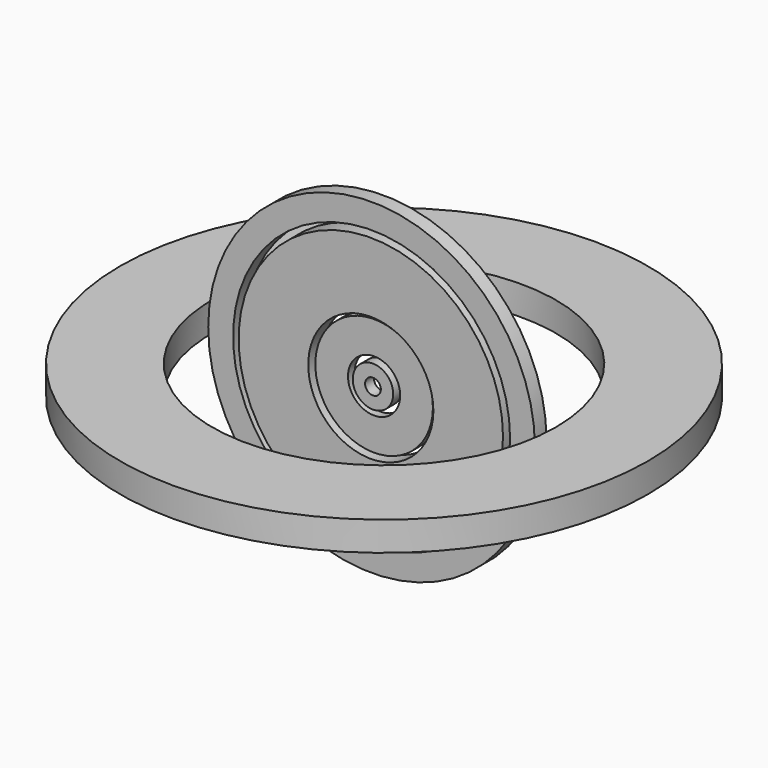
from build123d import *

# Parameters (mm, degrees)
F0_W = 178.990364
F0_H = 160.704672
F2_W = 473.131418
F2_H = 119.407774
F4_W = 1007.479668
F4_H = 238.651752
F6_W = 359.913291
F6_H = 210.165144
F8_W = 1330.667496
F8_H = 422.868728


with BuildPart() as f1:
    # F0 (on Top) → F1 (revolve)
    with BuildSketch(Plane.XY):
        with Locations((203.314006, 0)):
            Rectangle(F0_W, F0_H)
    revolve(axis=Axis((0, 14.369354, 0), (0, -1, 0)))


with BuildPart() as f3:
    # F2 (on Top) → F3 (revolve)
    with BuildSketch(Plane.XY):
        with Locations((614.379406, 0)):
            Rectangle(F2_W, F2_H)
    revolve(axis=Axis((0, 14.369354, 0), (0, -1, 0)))


with BuildPart() as f5:
    # F4 (on Top) → F5 (revolve)
    with BuildSketch(Plane.XY):
        with Locations((1409.371853, 0)):
            Rectangle(F4_W, F4_H)
    revolve(axis=Axis((0, 14.369354, 0), (0, -1, 0)))


with BuildPart() as f7:
    # F6 (on Top) → F7 (revolve)
    with BuildSketch(Plane.XY):
        with Locations((2184.584885, 0)):
            Rectangle(F6_W, F6_H)
    revolve(axis=Axis((0, 14.369354, 0), (0, -1, 0)))


with BuildPart() as f9:
    # F8 (on face) → F9 (revolve)
    with BuildSketch(Plane(origin=(0, 119.325876, 0), x_dir=(-1, 0, 0), z_dir=(0, 1, 0))):
        with Locations((-3155.142784, 0)):
            Rectangle(F8_W, F8_H)
    revolve(axis=Axis((0, 119.325876, -1.446307), (0, 0, -1)))


solid = Compound([f1.part, f3.part, f5.part, f7.part, f9.part])
